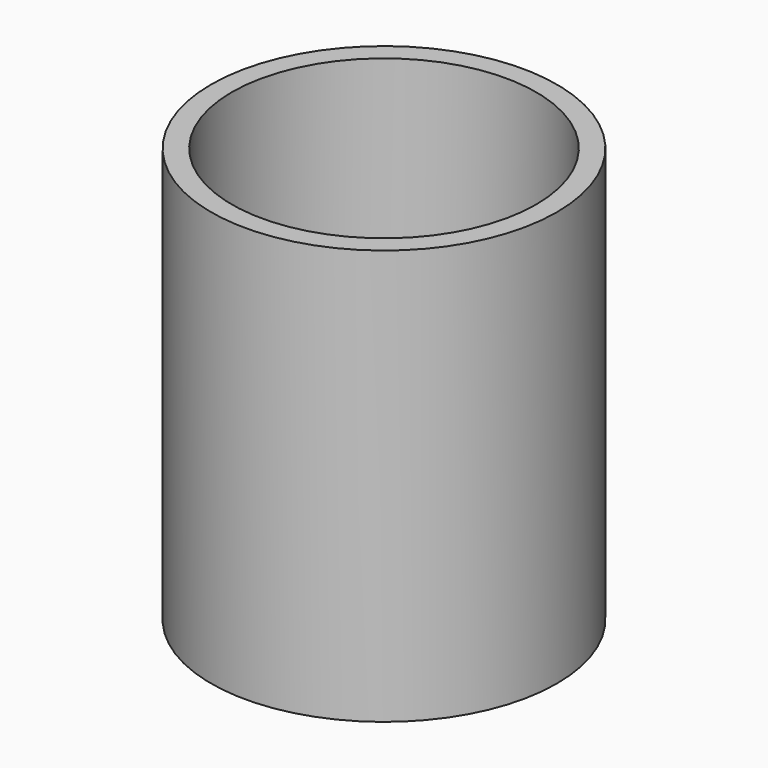
from build123d import *

# Parameters (mm, degrees)
F0_R     = 63.5
F1_DEPTH = 152.4
F3_T     = -7.62


with BuildPart() as f1:
    # F0 (on Top) → F1 (new body)
    with BuildSketch(Plane.XY):
        with Locations((-8.565548, 9.538906)):
            Circle(F0_R)
    extrude(amount=F1_DEPTH)


with BuildPart() as f1_1:
    # F2: moved
    add(f1.part.moved(Location((8.56556, -9.53905, 0))))

    # F3
    f3_openings = [f1_1.faces().sort_by_distance(p)[0] for p in [
        (1.2e-05, -0.000144, 152.4),
    ]]
    offset(amount=F3_T, openings=f3_openings)


solid = f1_1.part
